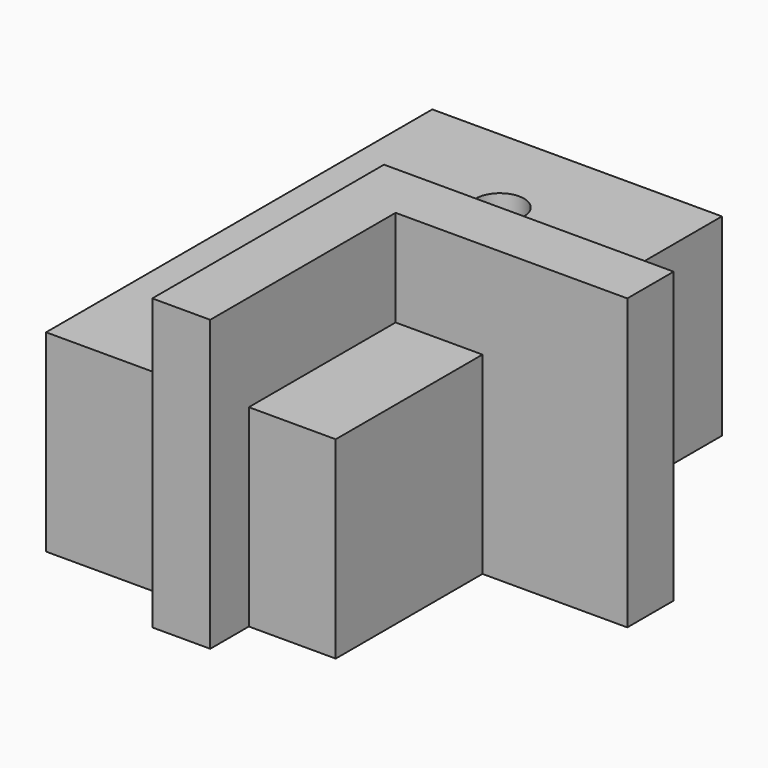
from build123d import *

# Parameters (mm, degrees)
SKETCH_W     = 15
SKETCH_H     = 25
SKETCH_R     = 1.25
PAD_DEPTH    = 10
PAD001_DEPTH = 15
SKETCH003_R  = 1.5
POCKET_DEPTH = 3.001


with BuildPart() as body:
    # Sketch → Pad (new body)
    with BuildSketch(Plane.XY):
        Rectangle(SKETCH_W, SKETCH_H)
        with Locations((0, 7.5)):
            Circle(SKETCH_R, mode=Mode.SUBTRACT)
        with Locations((0, -7.5)):
            Circle(SKETCH_R, mode=Mode.SUBTRACT)
    extrude(amount=PAD_DEPTH)


with BuildPart() as body001:
    # Sketch001 → Pad001 (new body)
    with BuildSketch(Plane.XY):
        Polygon((0, 0), (0, -15), (3, -15), (3, -3), (15, -3), (15, 0), align=None)
    extrude(amount=PAD001_DEPTH)

    # Sketch003 (on Face3 of Pad001) → Pocket (cut, through all)
    with BuildSketch(Plane.YZ.offset(3)):
        with Locations((-9, 7.5)):
            Circle(SKETCH003_R)
    extrude(amount=-POCKET_DEPTH, mode=Mode.SUBTRACT)


solid = Compound([body.part, body001.part])
